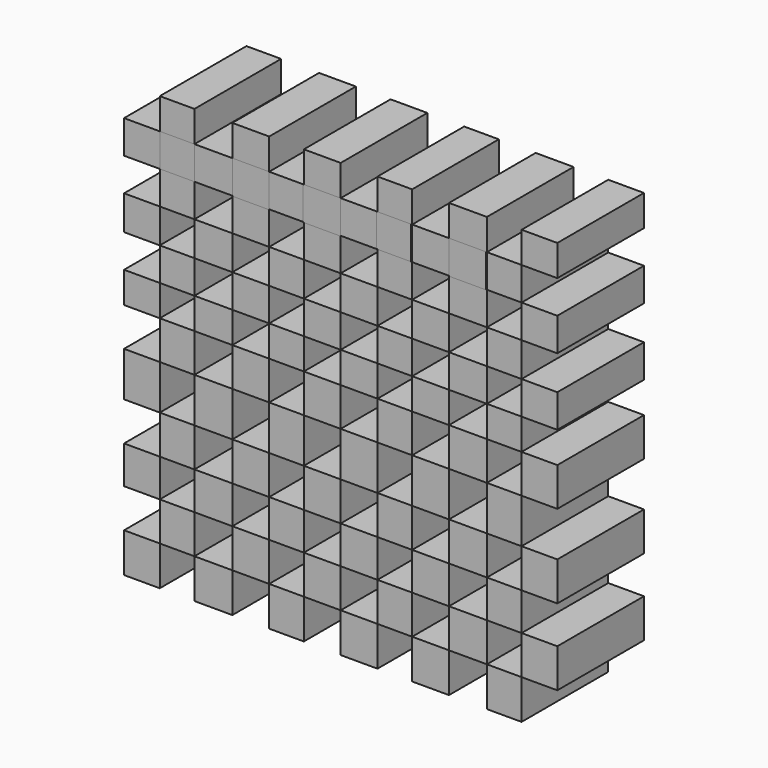
from build123d import *

# Parameters (mm, degrees)
F0_W     = 8.382000643
F0_H     = 9.2481281597
F0_H_2   = 7.2697916251
F0_W_2   = 8.1279985607
F0_W_3   = 8.6360008731
F0_W_4   = 8.6359996349
F0_W_5   = 8.8900007963
F0_W_6   = 8.127999492
F0_H_3   = 7.7590551227
F0_H_4   = 8.0266101286
F0_H_5   = 7.2857765481
F0_H_6   = 10.4345949367
F0_H_7   = 8.8292732835
F0_H_8   = 7.759058848
F0_H_9   = 9.0349996462
F0_H_10  = 9.0968254954
F0_H_11  = 9.096827358
F1_DEPTH = 25.4
F2_W     = 8.890000172
F2_H     = 7.8555960208
F3_DEPTH = 25.4
F2_W_2   = 8.6359996349
F2_W_3   = 8.1279836595
F2_H_2   = 7.7591873705
F2_W_4   = 8.6359959096


with BuildPart() as f1:
    # F0 (on Front) → F1 (new body)
    with BuildSketch(Plane.XZ):
        with Locations((-46.6089996785, -51.1165847996)):
            Rectangle(F0_W, F0_H)
        with Locations((46.6089996785, 42.224455308)):
            Rectangle(F0_W, F0_H_2)
        with Locations((-38.3540000767, 42.224455308)):
            Rectangle(F0_W_2, F0_H_2)
        with Locations((-21.0819995634, 42.224455308)):
            Rectangle(F0_W_3, F0_H_2)
        with Locations((-4.3179998174, 42.224455308)):
            Rectangle(F0_W_4, F0_H_2)
        with Locations((-29.8450003982, -51.1165847996)):
            Rectangle(F0_W_5, F0_H)
        with Locations((-12.6999993809, -51.1165847996)):
            Rectangle(F0_W_6, F0_H)
        with Locations((-46.6089996785, 34.7100319341)):
            Rectangle(F0_W, F0_H_3)
        with Locations((-46.6089996785, 19.0581404604)):
            Rectangle(F0_W, F0_H_4)
        with Locations((-46.6089996785, 3.642888274)):
            Rectangle(F0_W, F0_H_5)
        with Locations((-46.6089996785, -14.2522971146)):
            Rectangle(F0_W, F0_H_6)
        with Locations((-46.6089996785, -32.98105672)):
            Rectangle(F0_W, F0_H_7)
        with Locations((4.3179998174, -51.1165847996)):
            Rectangle(F0_W_4, F0_H)
        with Locations((29.8450003982, 42.224455308)):
            Rectangle(F0_W_5, F0_H_2)
        with Locations((12.6999993809, 42.224455308)):
            Rectangle(F0_W_6, F0_H_2)
        with Locations((46.6089996785, 26.9509749487)):
            Rectangle(F0_W, F0_H_8)
        with Locations((46.6089996785, 11.1653059721)):
            Rectangle(F0_W, F0_H_8)
        with Locations((46.6089996785, -4.5174998231)):
            Rectangle(F0_W, F0_H_9)
        with Locations((46.6089996785, -24.0180073306)):
            Rectangle(F0_W, F0_H_10)
        with Locations((46.6089996785, -41.9441070408)):
            Rectangle(F0_W, F0_H_11)
        with Locations((38.3540000767, -51.1165847996)):
            Rectangle(F0_W_2, F0_H)
        with Locations((21.0819995634, -51.1165847996)):
            Rectangle(F0_W_3, F0_H)
        with Locations((-29.8450003982, 34.7100319341)):
            Rectangle(F0_W_5, F0_H_3)
        with Locations((-12.6999993809, 19.0581404604)):
            Rectangle(F0_W_6, F0_H_4)
        with Locations((-29.8450003982, -32.98105672)):
            Rectangle(F0_W_5, F0_H_7)
        with Locations((-29.8450003982, -14.2522971146)):
            Rectangle(F0_W_5, F0_H_6)
        with Locations((-12.6999993809, -32.98105672)):
            Rectangle(F0_W_6, F0_H_7)
        with Locations((-12.6999993809, -14.2522971146)):
            Rectangle(F0_W_6, F0_H_6)
        with Locations((-21.0819995634, -24.0180073306)):
            Rectangle(F0_W_3, F0_H_10)
        with Locations((-29.8450003982, 19.0581404604)):
            Rectangle(F0_W_5, F0_H_4)
        with Locations((-29.8450003982, 3.642888274)):
            Rectangle(F0_W_5, F0_H_5)
        with Locations((-21.0819995634, 26.9509749487)):
            Rectangle(F0_W_3, F0_H_8)
        with Locations((-4.3179998174, -4.5174998231)):
            Rectangle(F0_W_4, F0_H_9)
        with Locations((29.8450003982, 11.1653059721)):
            Rectangle(F0_W_5, F0_H_8)
        with Locations((21.0819995634, 19.0581404604)):
            Rectangle(F0_W_3, F0_H_4)
        with Locations((-21.0819995634, -4.5174998231)):
            Rectangle(F0_W_3, F0_H_9)
        with Locations((21.0819995634, 3.642888274)):
            Rectangle(F0_W_3, F0_H_5)
        with Locations((12.6999993809, 26.9509749487)):
            Rectangle(F0_W_6, F0_H_8)
        with Locations((4.3179998174, 3.642888274)):
            Rectangle(F0_W_4, F0_H_5)
        with Locations((-4.3179998174, 26.9509749487)):
            Rectangle(F0_W_4, F0_H_8)
        with Locations((12.6999993809, -4.5174998231)):
            Rectangle(F0_W_6, F0_H_9)
        with Locations((29.8450003982, -4.5174998231)):
            Rectangle(F0_W_5, F0_H_9)
        with Locations((-38.3540000767, -4.5174998231)):
            Rectangle(F0_W_2, F0_H_9)
        with Locations((-38.3540000767, 11.1653059721)):
            Rectangle(F0_W_2, F0_H_8)
        with Locations((4.3179998174, 19.0581404604)):
            Rectangle(F0_W_4, F0_H_4)
        with Locations((21.0819995634, -32.98105672)):
            Rectangle(F0_W_3, F0_H_7)
        with Locations((-12.6999993809, 3.642888274)):
            Rectangle(F0_W_6, F0_H_5)
        with Locations((12.6999993809, -24.0180073306)):
            Rectangle(F0_W_6, F0_H_10)
        with Locations((-4.3179998174, 11.1653059721)):
            Rectangle(F0_W_4, F0_H_8)
        with Locations((21.0819995634, -14.2522971146)):
            Rectangle(F0_W_3, F0_H_6)
        with Locations((4.3179998174, -32.98105672)):
            Rectangle(F0_W_4, F0_H_7)
        with Locations((29.8450003982, 26.9509749487)):
            Rectangle(F0_W_5, F0_H_8)
        with Locations((-21.0819995634, 11.1653059721)):
            Rectangle(F0_W_3, F0_H_8)
        with Locations((4.3179998174, -14.2522971146)):
            Rectangle(F0_W_4, F0_H_6)
        with Locations((29.8450003982, -24.0180073306)):
            Rectangle(F0_W_5, F0_H_10)
        with Locations((-38.3540000767, 26.9509749487)):
            Rectangle(F0_W_2, F0_H_8)
        with Locations((-38.3540000767, -24.0180073306)):
            Rectangle(F0_W_2, F0_H_10)
        with Locations((-4.3179998174, -24.0180073306)):
            Rectangle(F0_W_4, F0_H_10)
        with Locations((12.6999993809, 11.1653059721)):
            Rectangle(F0_W_6, F0_H_8)
        with Locations((-12.6999993809, 34.7100319341)):
            Rectangle(F0_W_6, F0_H_3)
        with Locations((4.3179998174, 34.7100319341)):
            Rectangle(F0_W_4, F0_H_3)
        with Locations((21.0819995634, 34.7100319341)):
            Rectangle(F0_W_3, F0_H_3)
        with Locations((38.3540000767, 34.7100319341)):
            Rectangle(F0_W_2, F0_H_3)
        with Locations((38.3540000767, 19.0581404604)):
            Rectangle(F0_W_2, F0_H_4)
        with Locations((38.3540000767, 3.642888274)):
            Rectangle(F0_W_2, F0_H_5)
        with Locations((38.3540000767, -14.2522971146)):
            Rectangle(F0_W_2, F0_H_6)
        with Locations((38.3540000767, -32.98105672)):
            Rectangle(F0_W_2, F0_H_7)
        with Locations((29.8450003982, -41.9441070408)):
            Rectangle(F0_W_5, F0_H_11)
        with Locations((-4.3179998174, -41.9441070408)):
            Rectangle(F0_W_4, F0_H_11)
        with Locations((-21.0819995634, -41.9441070408)):
            Rectangle(F0_W_3, F0_H_11)
        with Locations((-38.3540000767, -41.9441070408)):
            Rectangle(F0_W_2, F0_H_11)
        with Locations((12.6999993809, -41.9441070408)):
            Rectangle(F0_W_6, F0_H_11)
    extrude(amount=F1_DEPTH)


with BuildPart() as f3:
    # F2 (on Front) → F3 (new body)
    with BuildSketch(Plane.XZ):
        with Locations((-4.445000086, 34.6617987379)):
            Rectangle(F2_W, F2_H)
    extrude(amount=F3_DEPTH)


with BuildPart() as f3b:
    # F2 (on Front) → F3, piece 2 (new body)
    with BuildSketch(Plane.XZ):
        with Locations((-21.0819998756, 34.6617987379)):
            Rectangle(F2_W_2, F2_H)
    extrude(amount=F3_DEPTH)


with BuildPart() as f3c:
    # F2 (on Front) → F3, piece 3 (new body)
    with BuildSketch(Plane.XZ):
        with Locations((12.4459626704, 34.7100030631)):
            Rectangle(F2_W_3, F2_H_2)
    extrude(amount=F3_DEPTH)


with BuildPart() as f3d:
    # F2 (on Front) → F3, piece 4 (new body)
    with BuildSketch(Plane.XZ):
        with Locations((-38.3540373296, 34.7100030631)):
            Rectangle(F2_W_3, F2_H_2)
    extrude(amount=F3_DEPTH)


with BuildPart() as f3e:
    # F2 (on Front) → F3, piece 5 (new body)
    with BuildSketch(Plane.XZ):
        with Locations((29.7180013731, 34.6617987379)):
            Rectangle(F2_W_4, F2_H)
    extrude(amount=F3_DEPTH)


solid = Compound([f1.part, f3.part, f3b.part, f3c.part, f3d.part, f3e.part])
